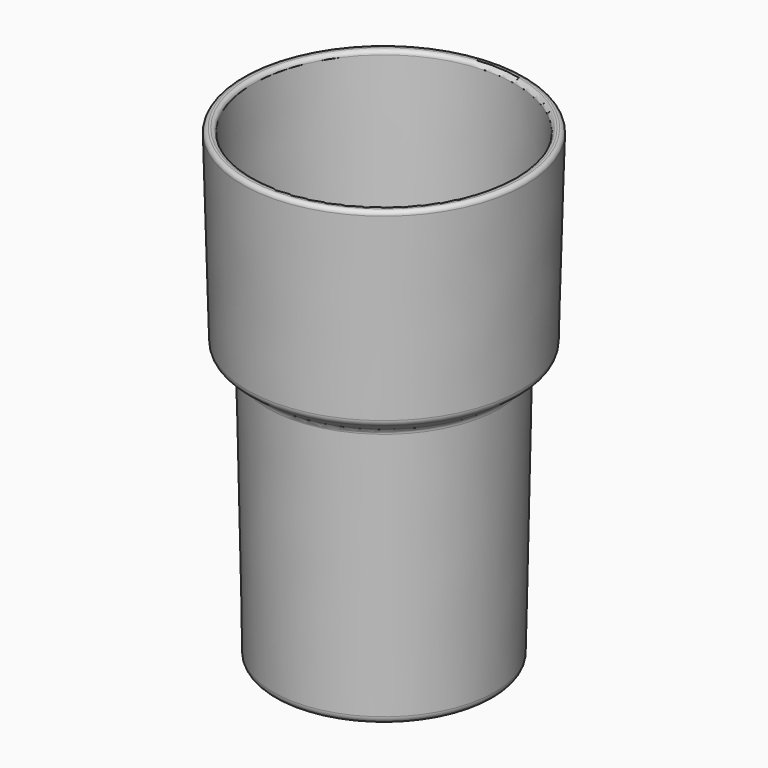
from build123d import *


with BuildPart() as f1:
    # F0 (on Front) → F1 (revolve)
    with BuildSketch(Plane.XZ):
        with BuildLine():
            Line((26.519583, 54.724572), (27.477794, 90.178386))
            ThreePointArc((27.477794, 90.178386), (27.251362, 90.757991), (26.678086, 91))
            Line((26.678086, 91), (26.278671, 91))
            ThreePointArc((26.278671, 91), (25.720679, 90.773276), (25.478963, 90.221614))
            Line((25.478963, 90.221614), (24.593499, 57.459474))
            ThreePointArc((24.593499, 57.459474), (24.140281, 56.425107), (23.094047, 56))
            Line((23.094047, 56), (22.268947, 56))
            ThreePointArc((22.268947, 56), (21.6236, 55.854078), (21.103813, 55.444703))
            Line((21.103813, 55.444703), (17.834866, 51.413002))
            ThreePointArc((17.834866, 51.413002), (17.586193, 50.969447), (17.5, 50.468299))
            Line((17.5, 50.468299), (17.5, 1.5))
            ThreePointArc((17.5, 1.5), (17.93934, 0.43934), (19, 0))
            Line((19, 0), (20.029123, 0))
            ThreePointArc((20.029123, 0), (21.079336, 0.428994), (21.528835, 1.470594))
            Line((21.528835, 1.470594), (22.485656, 50.268432))
            ThreePointArc((22.485656, 50.268432), (22.650367, 50.922965), (23.085367, 51.439025))
            Line((23.085367, 51.439025), (25.920131, 53.565098))
            ThreePointArc((25.920131, 53.565098), (26.352586, 54.076213), (26.519583, 54.724572))
        make_face()
    revolve(axis=Axis((0, 0, 46.589531), (0, 0, 1)))


solid = f1.part
